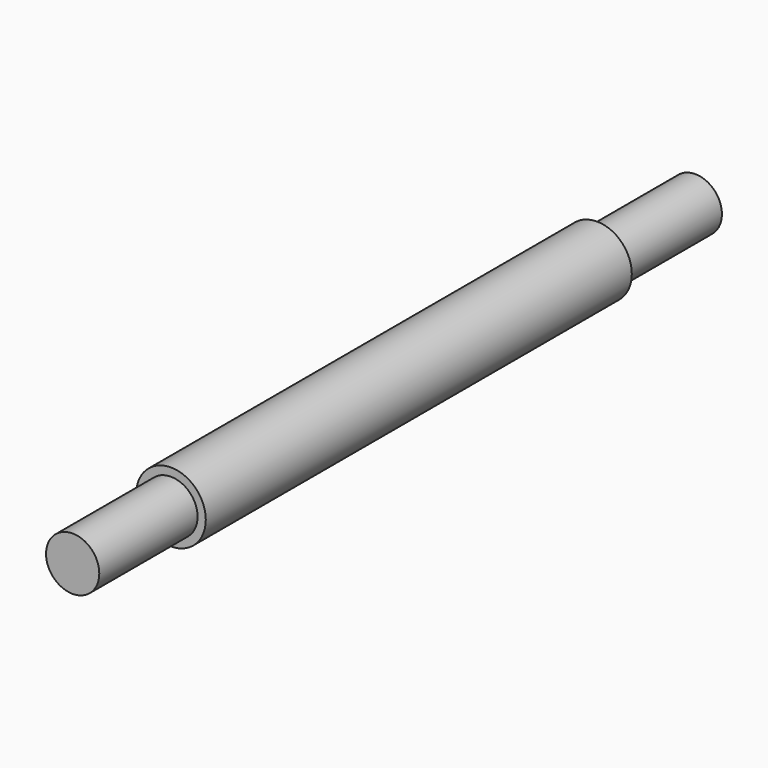
from build123d import *

# Parameters (mm, degrees)
F0_R     = 32.5
F1_DEPTH = 150
F2_R     = 42.5
F2_R_2   = 32.5
F3_DEPTH = 650
F4_R     = 32.5
F5_DEPTH = 150


with BuildPart() as f1:
    # F0 (on Front) → F1 (new body)
    with BuildSketch(Plane.XZ):
        Circle(F0_R)
    extrude(amount=F1_DEPTH)

    # F2 (on face) → F3 (join)
    with BuildSketch(Plane.XZ.offset(150)):
        Circle(F2_R)
        Circle(F2_R_2, mode=Mode.SUBTRACT)
        Circle(F2_R_2)
    extrude(amount=F3_DEPTH)

    # F4 (on face) → F5 (join)
    with BuildSketch(Plane.XZ.offset(800)):
        Circle(F4_R)
    extrude(amount=F5_DEPTH)


solid = f1.part
